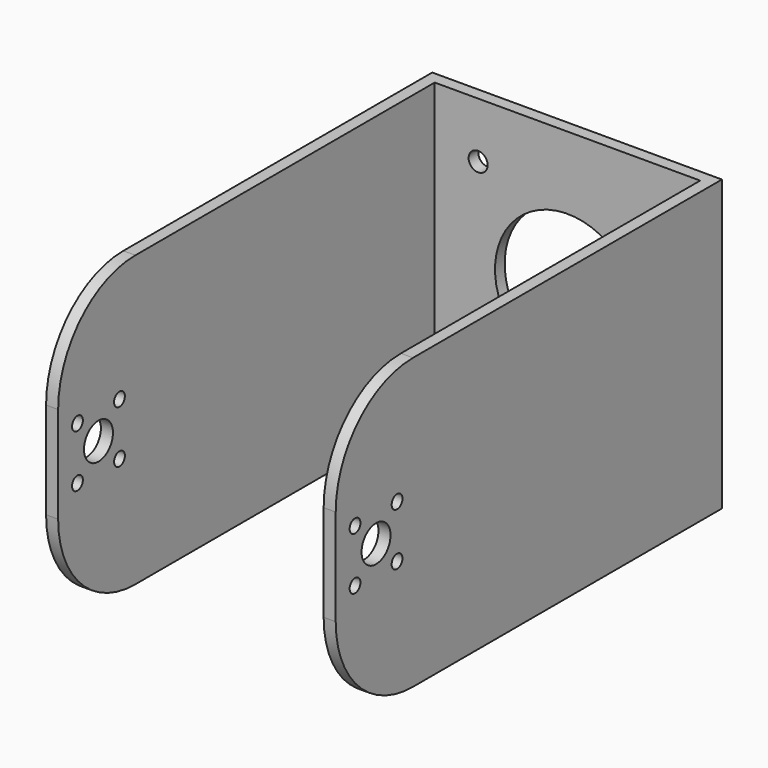
from build123d import *

# Parameters (mm, degrees)
F0_W     = 69.85
F0_H     = 76.2
F0_R     = 2.5
F0_R_2   = 19.05
F1_DEPTH = 3.175
F0_W_2   = 3.175
F2_DEPTH = 127
F3_R     = 1.778
F3_R_2   = 4.7625
F4_DEPTH = 76.201
F5_R     = 25.4
F6_R     = 25.4
F7_R     = 25.4
F8_R     = 25.4


with BuildPart() as f1:
    # F0 (on Front) → F1 (new body)
    with BuildSketch(Plane.XZ):
        Rectangle(F0_W, F0_H)
        with Locations((-23.5, -23.5)):
            Circle(F0_R, mode=Mode.SUBTRACT)
        with Locations((23.5, -23.5)):
            Circle(F0_R, mode=Mode.SUBTRACT)
        with Locations((-23.5, 23.5)):
            Circle(F0_R, mode=Mode.SUBTRACT)
        Circle(F0_R_2, mode=Mode.SUBTRACT)
        with Locations((23.5, 23.5)):
            Circle(F0_R, mode=Mode.SUBTRACT)
    extrude(amount=F1_DEPTH)

    # F0 (on Front) → F2 (join)
    with BuildSketch(Plane.XZ):
        with Locations((-36.5125, 0)):
            Rectangle(F0_W_2, F0_H)
        with Locations((36.5125, 0)):
            Rectangle(F0_W_2, F0_H)
    extrude(amount=F2_DEPTH)

    # F3 (on face) → F4 (cut, through all)
    with BuildSketch(Plane.YZ.offset(38.1)):
        with Locations((-120.65, 6.9088)):
            Circle(F3_R)
        with Locations((-106.8324, 6.9088)):
            Circle(F3_R)
        with Locations((-106.8324, -6.9088)):
            Circle(F3_R)
        with Locations((-120.65, -6.9088)):
            Circle(F3_R)
        with Locations((-113.7412, 0)):
            Circle(F3_R_2)
    extrude(amount=-F4_DEPTH, mode=Mode.SUBTRACT)

    # F5
    f5_edges = [f1.edges().sort_by_distance(p)[0] for p in [
        (36.5125, -127, 38.1),
    ]]
    fillet(f5_edges, radius=F5_R)

    # F6
    f6_edges = [f1.edges().sort_by_distance(p)[0] for p in [
        (-36.5125, -127, 38.1),
    ]]
    fillet(f6_edges, radius=F6_R)

    # F7
    f7_edges = [f1.edges().sort_by_distance(p)[0] for p in [
        (-36.5125, -127, -38.1),
    ]]
    fillet(f7_edges, radius=F7_R)

    # F8
    f8_edges = [f1.edges().sort_by_distance(p)[0] for p in [
        (36.5125, -127, -38.1),
    ]]
    fillet(f8_edges, radius=F8_R)


solid = f1.part
